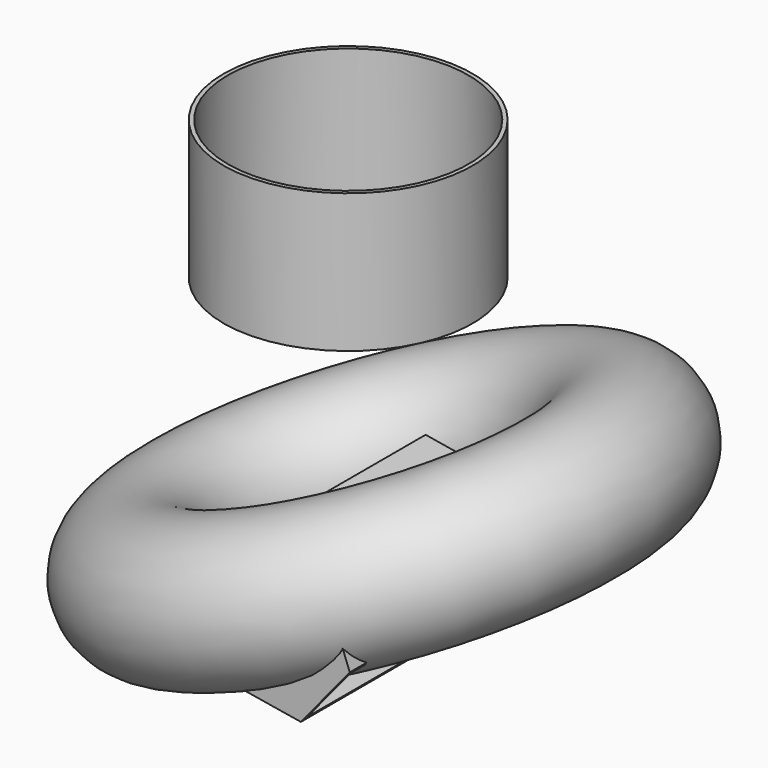
from build123d import *

# Parameters (mm, degrees)
F0_W     = 75.7582336664
F0_H     = 84.4890475273
F4_DEPTH = 136.1159533262
F2_R     = 43.439770763
F6_T     = -2.54
F7_T     = -2.54


with BuildPart() as f1:
    # F0 (on Front) → F1 (revolve)
    with BuildSketch(Plane.XZ):
        with Locations((-37.8791168332, 118.8202351332)):
            Rectangle(F0_W, F0_H)
    revolve(axis=Axis((0, 0, 118.8202351332), (0, 0, -1)))

    # F6
    f6_openings = [f1.faces().sort_by_distance(p)[0] for p in [
        (0, 0, 161.064759),
    ]]
    offset(amount=F6_T, openings=f6_openings)


with BuildPart() as f4:
    # F3 (on Front) → F4 (new body)
    with BuildSketch(Plane.XZ):
        Polygon((109.8424350321, -43.8586298293), (93.3349132538, 0), (47.0984647573, 7.6333817011), (17.369538039, -28.591866427), (33.8770598173, -72.4504962564), (80.1135083138, -80.0838779575), align=None)
    extrude(amount=F4_DEPTH)

    # F7
    f7_openings = [f4.faces().sort_by_distance(p)[0] for p in [
        (63.605987, 0, -36.225248),
        (94.977972, -68.057977, -61.971254),
    ]]
    offset(amount=F7_T, openings=f7_openings)


with BuildPart() as f5:
    # F2 (on Front) → F5 (revolve)
    with BuildSketch(Plane.XZ):
        with Locations((-91.6937440634, -83.0606520176)):
            Circle(F2_R)
    revolve(axis=Axis((25.6232989282, 0, -50.5211813417), (-0.3522557, 0, 0.9359037994)))


solid = Compound([f1.part, f4.part, f5.part])
